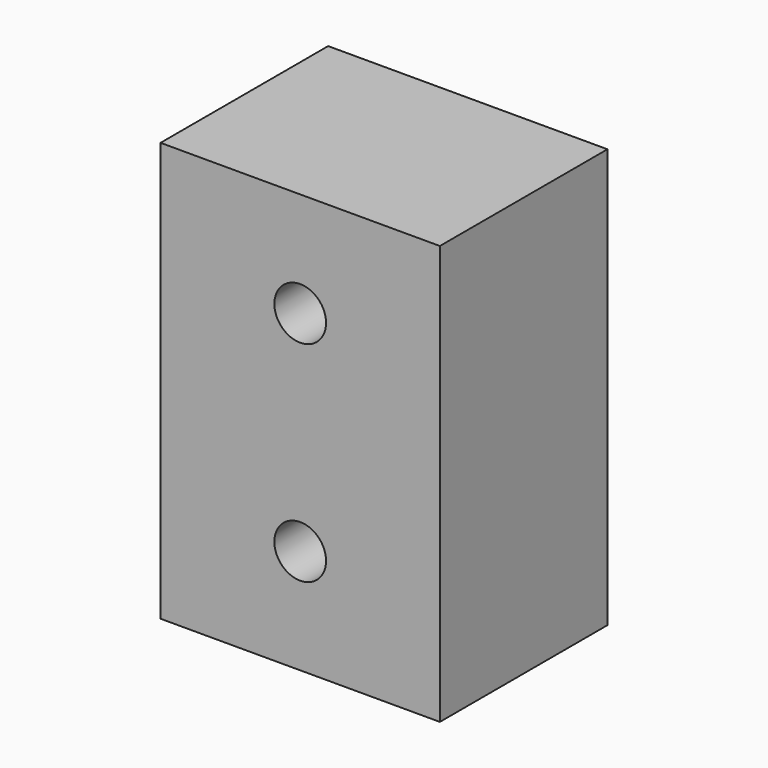
from build123d import *

# Parameters (mm, degrees)
F0_W     = 50.8
F0_H     = 76.2
F1_DEPTH = 38.1
F2_R     = 4.699
F3_DEPTH = 38.101


with BuildPart() as f1:
    # F0 (on Front) → F1 (new body)
    with BuildSketch(Plane.XZ):
        Rectangle(F0_W, F0_H)
    extrude(amount=F1_DEPTH)

    # F2 (on face) → F3 (cut, through all)
    with BuildSketch(Plane.XZ.offset(38.1)):
        with Locations((0, 19.05)):
            Circle(F2_R)
        with Locations((0, -19.05)):
            Circle(F2_R)
    extrude(amount=-F3_DEPTH, mode=Mode.SUBTRACT)


solid = f1.part
